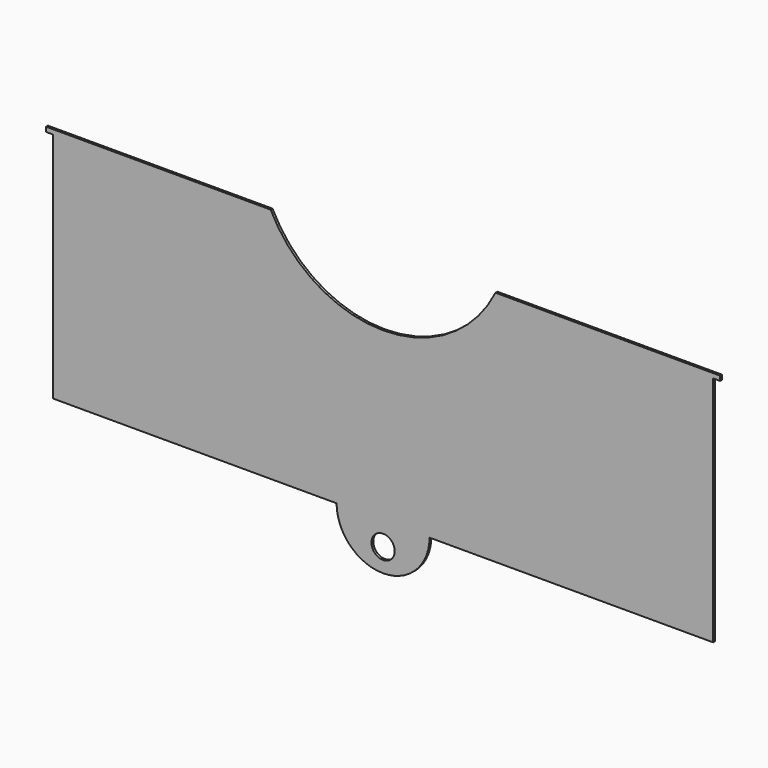
from build123d import *

# Parameters (mm, degrees)
F0_R     = 5
F1_DEPTH = 1
F2_R     = 54
F3_DEPTH = 1


with BuildPart() as f1:
    # F0 (on Front) → F1 (new body)
    with BuildSketch(Plane.XZ):
        with BuildLine():
            Line((145, 102), (-145, 102))
            Line((-145, 102), (-145, 100))
            Line((-145, 100), (-142, 100))
            Line((-142, 100), (-142, 0))
            Line((-142, 0), (-20, 0))
            ThreePointArc((-20, 0), (0, -20), (20, 0))
            Line((20, 0), (142, 0))
            Line((142, 0), (142, 100))
            Line((142, 100), (145, 100))
            Line((145, 100), (145, 102))
        make_face()
        with Locations((0, -10)):
            Circle(F0_R, mode=Mode.SUBTRACT)
    extrude(amount=F1_DEPTH)

    # F2 (on Front) → F3 (cut)
    with BuildSketch(Plane.XZ):
        with Locations((0, 126)):
            Circle(F2_R)
    extrude(amount=F3_DEPTH, mode=Mode.SUBTRACT)


solid = f1.part
